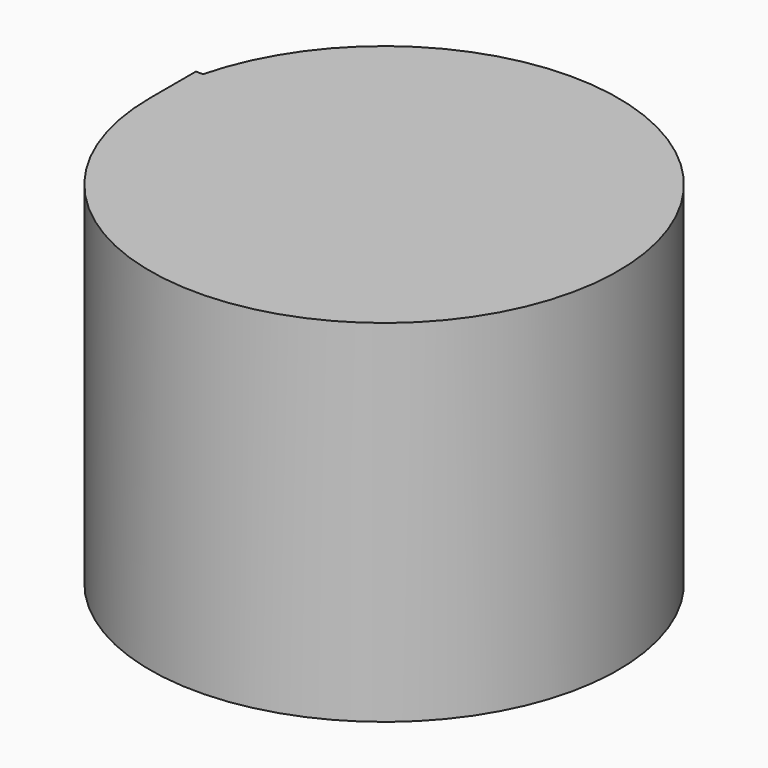
from build123d import *

# Parameters (mm, degrees)
F0_W      = 103.6533489823
F0_H      = 155.4800234735
F1_DEPTH  = 25.4
F1_FACE_W = 103.6533489823
F1_FACE_H = 155.4800234735


with BuildPart() as f1:
    # F0 (on Front) → F1 (new body)
    with BuildSketch(Plane.XZ):
        with Locations((51.8266744912, 42.4881726503)):
            Rectangle(F0_W, F0_H)
    extrude(amount=F1_DEPTH)

    # F1_face (on face) → F2 (revolve)
    with BuildSketch(Plane(origin=(51.8266744912, -25.4, 42.4881726503), x_dir=(1, 0, 0), z_dir=(0, -1, 0))):
        Rectangle(F1_FACE_W, F1_FACE_H)
    revolve(axis=Axis((103.6533489823, -25.4, 42.4881726503), (0, 0, 1)))


solid = f1.part
